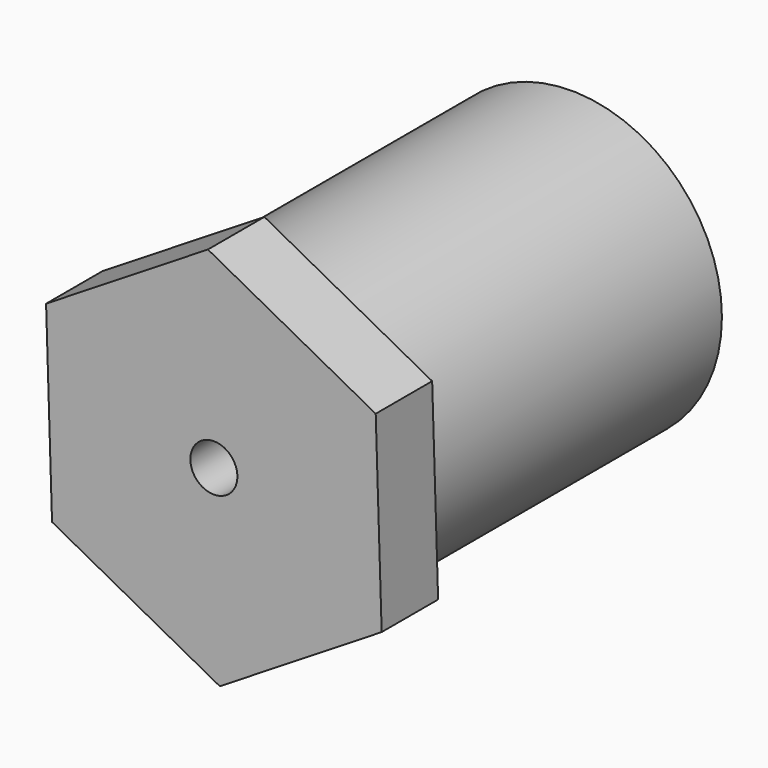
from build123d import *

# Parameters (mm, degrees)
F0_R     = 10.16
F0_R_2   = 1.5875
F1_DEPTH = 25.4
F3_R     = 1.5875
F4_DEPTH = 4.7625


with BuildPart() as f1:
    # F0 (on Front) → F1 (new body)
    with BuildSketch(Plane.XZ):
        Circle(F0_R)
        Circle(F0_R_2, mode=Mode.SUBTRACT)
    extrude(amount=F1_DEPTH)

    # F3 (on offset) → F4 (join)
    with BuildSketch(Plane.XZ.offset(25.4)):
        Polygon((10.923216, 6.770705), (-0.401995, 12.845135), (-11.32521, 6.07443), (-10.923216, -6.770705), (0.401995, -12.845135), (11.32521, -6.07443), align=None)
        Circle(F3_R, mode=Mode.SUBTRACT)
    extrude(amount=F4_DEPTH)


solid = f1.part
